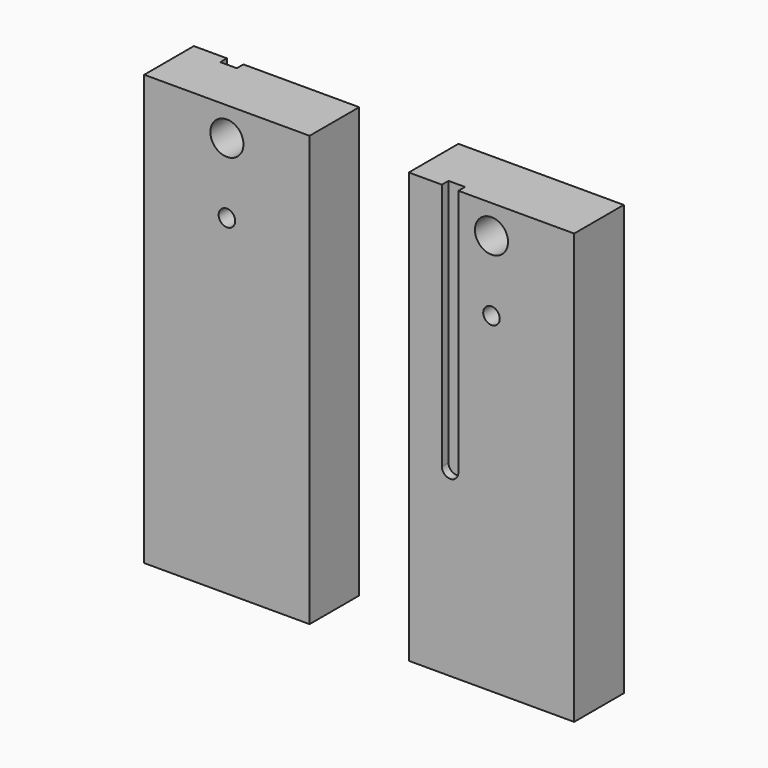
from build123d import *

# Parameters (mm, degrees)
F0_W     = 63.5
F0_H     = 165.1
F0_R     = 3.175
F0_R_2   = 6.35
F1_DEPTH = 23.8125
F3_D     = 7.9375
F3_DEPTH = 25.4
F3_TIP   = 2.3846655818
F6_DEPTH = 3.175
F8_DEPTH = 3.175


with BuildPart() as f1:
    # F0 (on Front) → F1 (new body)
    with BuildSketch(Plane.XZ):
        Rectangle(F0_W, F0_H)
        with Locations((0, 44.45)):
            Circle(F0_R, mode=Mode.SUBTRACT)
        with Locations((0, 71.4248)):
            Circle(F0_R_2, mode=Mode.SUBTRACT)
    extrude(amount=F1_DEPTH)

    # F3
    with Locations(Plane(origin=(0, 0, -82.55), x_dir=(1, 0, 0), z_dir=(0, 0, -1))):
        with Locations((-22.225, 11.90625), (22.225, 11.90625)):
            Hole(F3_D / 2, depth=F3_DEPTH)
            with Locations((0, 0, -(F3_DEPTH + F3_TIP / 2))):  # 118° drill point
                Cone(0, F3_D / 2, F3_TIP, mode=Mode.SUBTRACT)


with BuildPart() as f4_1:
    # F4: copy of F1
    add(f1.part.moved(Location((-101.6, 0, 0))))

    # F7 (on face) → F8 (cut)
    with BuildSketch(Plane(origin=(0, 0, 0), x_dir=(-1, 0, 0), z_dir=(0, 1, 0))):
        with BuildLine():
            Line((120.65, 82.55), (114.3, 82.55))
            Line((114.3, 82.55), (114.3, -12.7))
            ThreePointArc((114.3, -12.7), (117.475, -15.875), (120.65, -12.7))
            Line((120.65, -12.7), (120.65, 82.55))
        make_face()
    extrude(amount=-F8_DEPTH, mode=Mode.SUBTRACT)


with BuildPart() as f1_1:
    add(f1.part)

    # F5 (on face) → F6 (cut)
    with BuildSketch(Plane.XZ.offset(23.8125)):
        with BuildLine():
            Line((-12.7, 82.55), (-19.05, 82.55))
            Line((-19.05, 82.55), (-19.05, -12.7))
            ThreePointArc((-19.05, -12.7), (-15.875, -15.875), (-12.7, -12.7))
            Line((-12.7, -12.7), (-12.7, 82.55))
        make_face()
    extrude(amount=-F6_DEPTH, mode=Mode.SUBTRACT)


solid = Compound([f4_1.part, f1_1.part])
